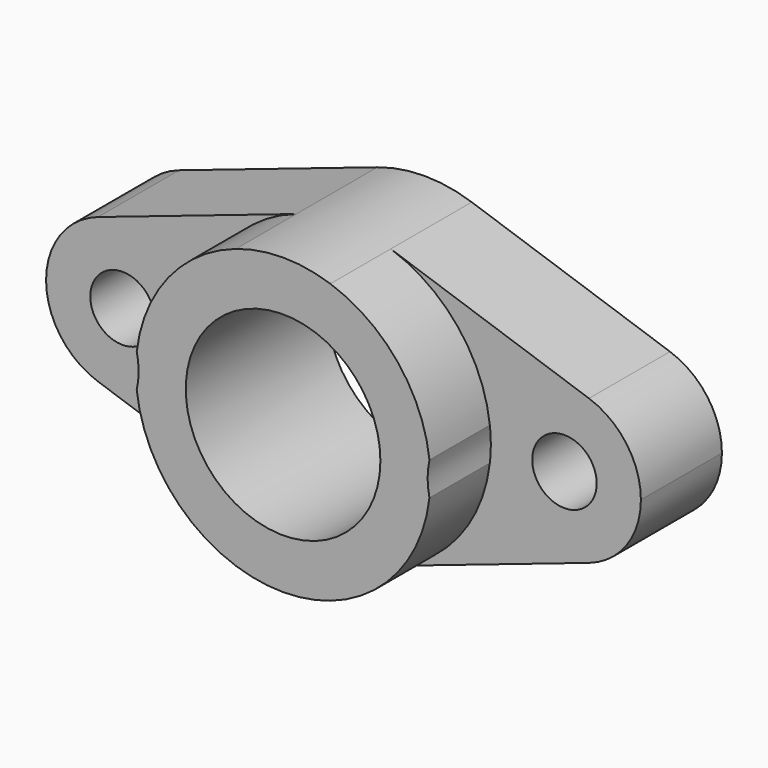
from build123d import *

# Parameters (mm, degrees)
F0_R     = 7
F1_DEPTH = 22
F0_R_2   = 21.14
F2_DEPTH = 38.4


with BuildPart() as f1:
    # F0 (on Front) → F1 (new body)
    with BuildSketch(Plane.XZ):
        with BuildLine():
            ThreePointArc((-10.263392, -30.309451), (-24.90573, -20.092402), (-31.794551, -3.620296))
            ThreePointArc((-31.794551, -3.620296), (-39.861243, -14.473554), (-53.32571, -15.727681))
            Line((-53.32571, -15.727681), (-10.263392, -30.309451))
        make_face()
        with BuildLine():
            ThreePointArc((-31.794551, 3.620296), (-24.90573, 20.092402), (-10.263392, 30.309451))
            Line((-10.263392, 30.309451), (-53.32571, 15.727681))
            ThreePointArc((-53.32571, 15.727681), (-39.861243, 14.473554), (-31.794551, 3.620296))
        make_face()
        with BuildLine():
            Line((53.32571, 15.727681), (10.263392, 30.309451))
            ThreePointArc((10.263392, 30.309451), (24.90573, 20.092402), (31.794551, 3.620296))
            ThreePointArc((31.794551, 3.620296), (39.861243, 14.473554), (53.32571, 15.727681))
        make_face()
        with BuildLine():
            ThreePointArc((53.32571, 15.727681), (39.861243, 14.473554), (31.794551, 3.620296))
            ThreePointArc((31.794551, 3.620296), (31.948596, 1.81306), (32, 0))
            ThreePointArc((32, 0), (31.948596, -1.81306), (31.794551, -3.620296))
            ThreePointArc((31.794551, -3.620296), (39.861243, -14.473554), (53.32571, -15.727681))
            ThreePointArc((53.32571, -15.727681), (61.49363, -9.677039), (64.604913, 0))
            ThreePointArc((64.604913, 0), (61.49363, 9.677039), (53.32571, 15.727681))
        make_face()
        with Locations((48, 0)):
            Circle(F0_R, mode=Mode.SUBTRACT)
        with BuildLine():
            ThreePointArc((53.32571, -15.727681), (39.861243, -14.473554), (31.794551, -3.620296))
            ThreePointArc((31.794551, -3.620296), (24.90573, -20.092402), (10.263392, -30.309451))
            Line((10.263392, -30.309451), (53.32571, -15.727681))
        make_face()
        with BuildLine():
            ThreePointArc((-31.794551, -3.620296), (-32, 0), (-31.794551, 3.620296))
            ThreePointArc((-31.794551, 3.620296), (-39.861243, 14.473554), (-53.32571, 15.727681))
            ThreePointArc((-53.32571, 15.727681), (-64.604913, 0), (-53.32571, -15.727681))
            ThreePointArc((-53.32571, -15.727681), (-39.861243, -14.473554), (-31.794551, -3.620296))
        make_face()
        with Locations((-48, 0)):
            Circle(F0_R, mode=Mode.SUBTRACT)
    extrude(amount=F1_DEPTH)


with BuildPart() as f2:
    # F0 (on Front) → F2 (new body)
    with BuildSketch(Plane.XZ):
        with BuildLine():
            ThreePointArc((31.794551, 3.620296), (24.90573, 20.092402), (10.263392, 30.309451))
            ThreePointArc((10.263392, 30.309451), (0, 32), (-10.263392, 30.309451))
            ThreePointArc((-10.263392, 30.309451), (-24.90573, 20.092402), (-31.794551, 3.620296))
            ThreePointArc((-31.794551, 3.620296), (-31.495255, 1.821134), (-31.395087, 0))
            ThreePointArc((-31.395087, 0), (-31.495255, -1.821134), (-31.794551, -3.620296))
            ThreePointArc((-31.794551, -3.620296), (-24.90573, -20.092402), (-10.263392, -30.309451))
            ThreePointArc((-10.263392, -30.309451), (0, -32), (10.263392, -30.309451))
            ThreePointArc((10.263392, -30.309451), (24.90573, -20.092402), (31.794551, -3.620296))
            ThreePointArc((31.794551, -3.620296), (31.395087, 0), (31.794551, 3.620296))
        make_face()
        Circle(F0_R_2, mode=Mode.SUBTRACT)
    extrude(amount=F2_DEPTH)


solid = Compound([f1.part, f2.part])
